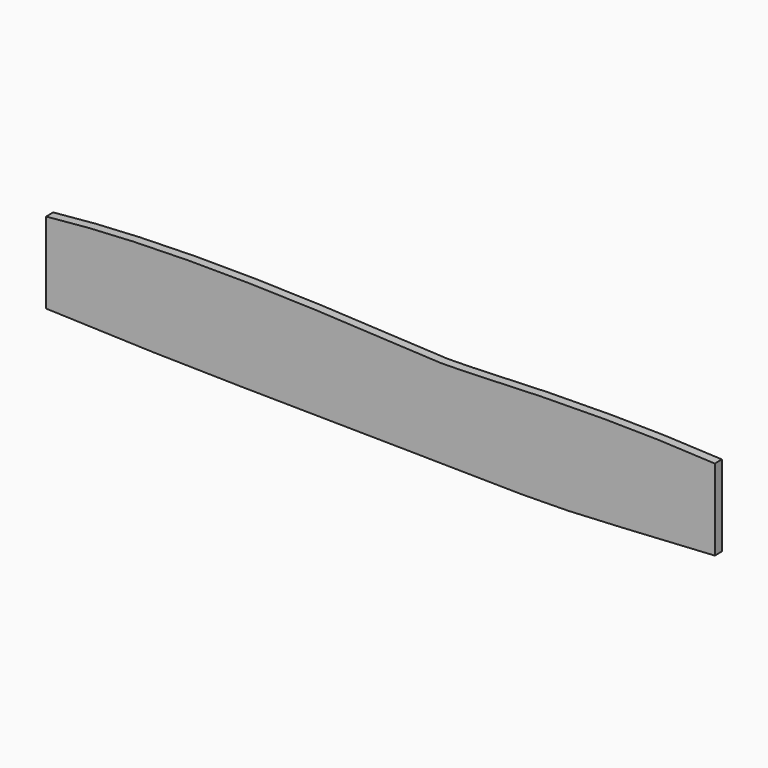
from build123d import *

# Parameters (mm, degrees)
F1_DEPTH = 22


with BuildPart() as f1:
    # F0 (on Front) → F1 (new body)
    with BuildSketch(Plane.XZ):
        with BuildLine():
            add(Edge.make_bspline(
                [(-796.9779274989, 100), (-447.1432525192, 138.8755834731), (136.7801574297, 95.8957215324), (245.5209371548, 99.3890867079), (595.9310516525, 115.8326299022), (853.0220725011, 100)],
                knots=[0, 0, 0, 0, 0.4637929044, 0.6267428084, 1, 1, 1, 1], degree=3))
            Line((-796.9779274989, 100), (-796.9779274989, -100))
            add(Edge.make_bspline(
                [(-796.9779274989, -100), (-454.7549810922, -114.1450153807), (-91.9619042667, -112.2621840264), (474.506802212, -127.2156203224), (598.2711471785, -114.2655883299), (853.0220725011, -100)],
                knots=[0, 0, 0, 0, 0.3957704881, 0.7027556727, 1, 1, 1, 1], degree=3))
            Line((853.0220725011, -100), (853.0220725011, 100))
        make_face()
    extrude(amount=F1_DEPTH)


solid = f1.part
